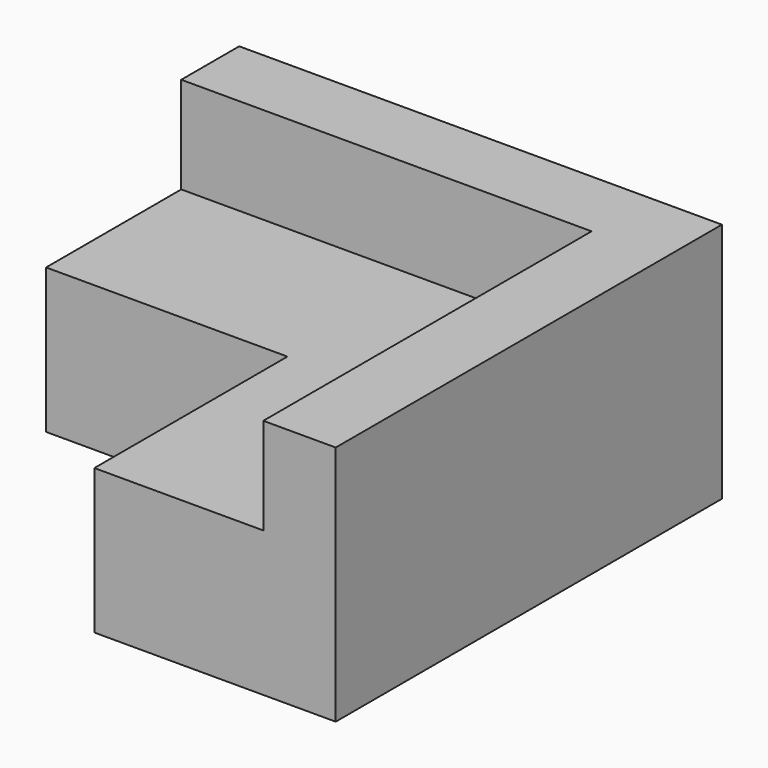
from build123d import *

# Parameters (mm, degrees)
F1_DEPTH = 1000
F3_DEPTH = 400


with BuildPart() as f1:
    # F0 (on Top) → F1 (new body)
    with BuildSketch(Plane.XY):
        Polygon((-1000, 0), (0, 0), (0, 2000), (-2000, 2000), (-2000, 1000), (-1000, 1000), align=None)
    extrude(amount=F1_DEPTH)

    # F2 (on face) → F3 (cut)
    with BuildSketch(Plane.XY.offset(1000)):
        Polygon((-2000, 1700), (-2000, 1000), (-1000, 1000), (-1000, 0), (-300, 0), (-300, 1700), align=None)
    extrude(amount=-F3_DEPTH, mode=Mode.SUBTRACT)


solid = f1.part
